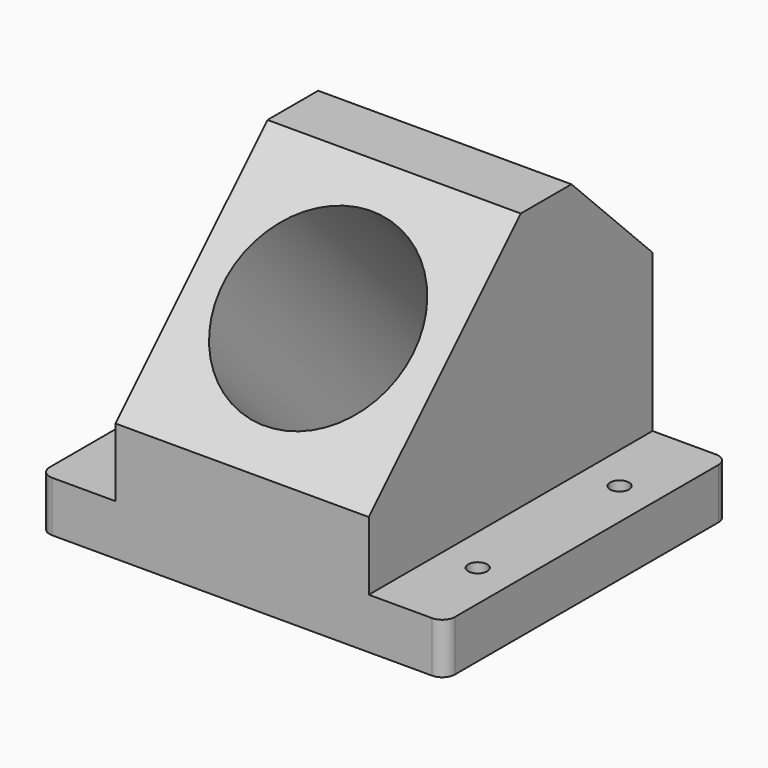
from build123d import *

# Parameters (mm, degrees)
F1_DEPTH  = 200
F2_W      = 280
F2_H      = 40
F3_DEPTH  = 60
F4_W      = 280
F4_H      = 40
F5_DEPTH  = 60
F6_R      = 75
F7_DEPTH  = 300
F8_R      = 7.5
F9_DEPTH  = 40
F10_R     = 7.5
F11_DEPTH = 40
F12_R     = 10


with BuildPart() as f1:
    # F0 (on Right) → F1 (new body)
    with BuildSketch(Plane.YZ):
        Polygon((-150, 94), (-150, 0), (130, 0), (130, 164), (50, 244), (0, 244), align=None)
    extrude(amount=F1_DEPTH)

    # F2 (on face) → F3 (join)
    with BuildSketch(Plane.YZ.offset(200)):
        with Locations((-10, 20)):
            Rectangle(F2_W, F2_H)
    extrude(amount=F3_DEPTH)

    # F4 (on face) → F5 (join)
    with BuildSketch(Plane(origin=(0, 0, 0), x_dir=(0, -1, 0), z_dir=(-1, 0, 0))):
        with Locations((10, 20)):
            Rectangle(F4_W, F4_H)
    extrude(amount=F5_DEPTH)

    # F6 (on face) → F7 (cut)
    with BuildSketch(Plane(origin=(0, -122, 122), x_dir=(1, 0, 0), z_dir=(0, -0.707107, 0.707107))):
        with Locations((100, 66.468037)):
            Circle(F6_R)
    extrude(amount=-F7_DEPTH, mode=Mode.SUBTRACT)

    # F8 (on face) → F9 (cut)
    with BuildSketch(Plane.XY.offset(40)):
        with Locations((-30, 60)):
            Circle(F8_R)
        with Locations((-30, -80)):
            Circle(F8_R)
    extrude(amount=-F9_DEPTH, mode=Mode.SUBTRACT)

    # F10 (on face) → F11 (cut)
    with BuildSketch(Plane.XY.offset(40)):
        with Locations((230, 60)):
            Circle(F10_R)
        with Locations((230, -80)):
            Circle(F10_R)
    extrude(amount=-F11_DEPTH, mode=Mode.SUBTRACT)

    # F12
    f12_edges = [f1.edges().sort_by_distance(p)[0] for p in [
        (-60, -150, 20),
        (260, -150, 20),
        (260, 130, 20),
        (-60, 130, 20),
    ]]
    fillet(f12_edges, radius=F12_R)


solid = f1.part
